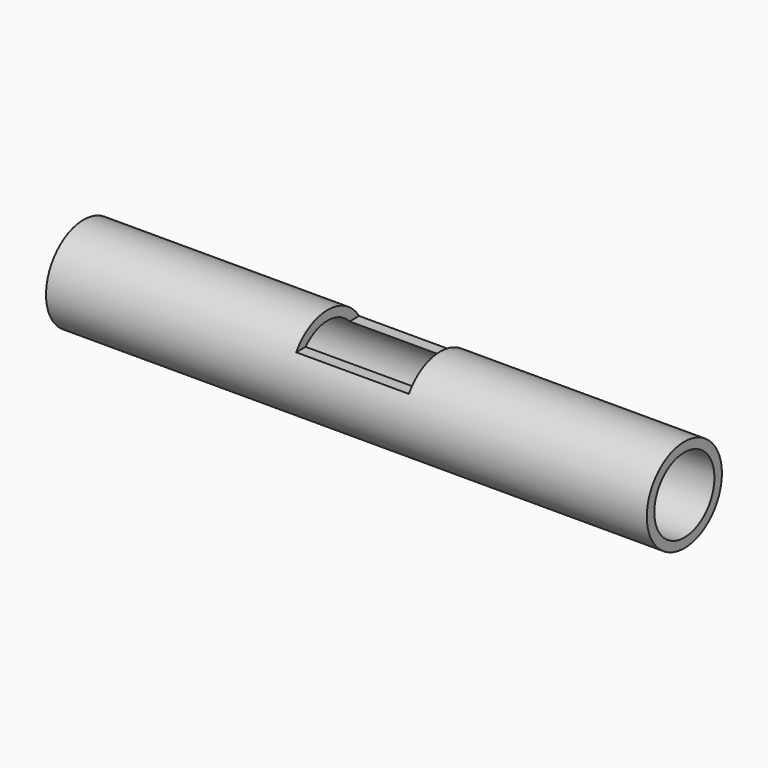
from build123d import *

# Parameters (mm, degrees)
F0_R     = 0.625
F0_R_2   = 0.5
F1_DEPTH = 4
F2_W     = 1.5
F2_H     = 0.5
F3_DEPTH = 1


with BuildPart() as f1:
    # F0 (on Right) → F1 (new body, symmetric)
    with BuildSketch(Plane.YZ):
        with Locations((-0.079547, 0)):
            Circle(F0_R)
        with Locations((-0.079547, 0)):
            Circle(F0_R_2, mode=Mode.SUBTRACT)
    extrude(amount=F1_DEPTH, both=True)

    # F2 (on Front) → F3 (cut, symmetric)
    with BuildSketch(Plane.XZ):
        with Locations((0, 0.590535)):
            Rectangle(F2_W, F2_H)
    extrude(amount=F3_DEPTH, both=True, mode=Mode.SUBTRACT)


solid = f1.part
